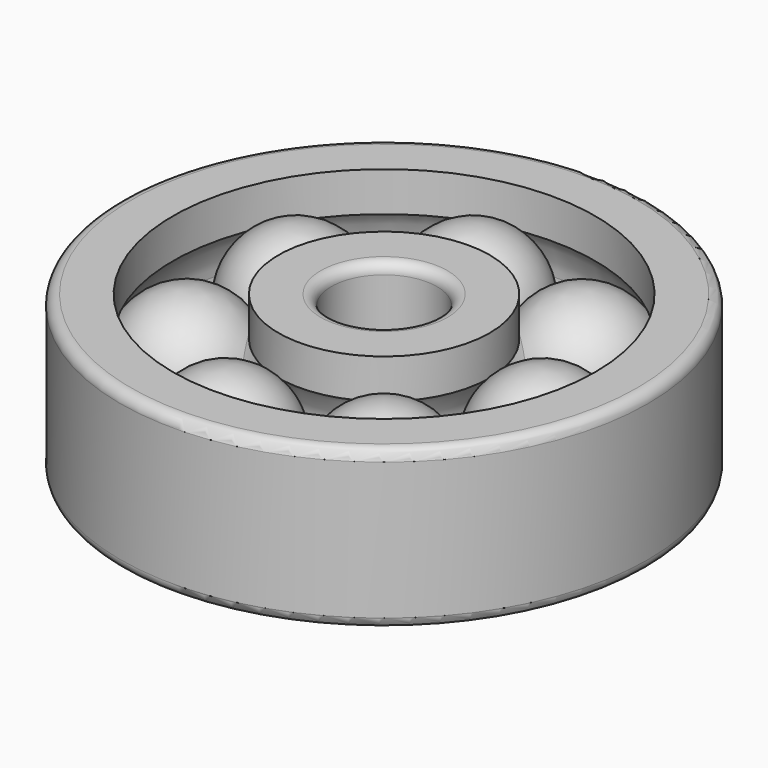
from build123d import *

# Parameters (mm, degrees)
F3_COUNT = 7
F4_R     = 2.54
F4_2_R   = 2.54


with BuildPart() as f1:
    # F0 (on Front) → F1 (revolve)
    with BuildSketch(Plane.XZ):
        with BuildLine():
            Line((50.8, -9.525), (50.8, -19.05))
            Line((50.8, -19.05), (63.5, -19.05))
            Line((63.5, -19.05), (63.5, 19.05))
            Line((63.5, 19.05), (50.8, 19.05))
            Line((50.8, 19.05), (50.8, 9.525))
            ThreePointArc((50.8, 9.525), (53.1603473566, 5.0201157855), (53.975, 0))
            ThreePointArc((53.975, 0), (53.1603473566, -5.0201157855), (50.8, -9.525))
        make_face()
    revolve(axis=Axis((0, 0, 8.9654894546), (0, 0, 1)))

    # F4
    f4_edges = [f1.edges().sort_by_distance(p)[0] for p in [
        (-63.5, 0, -19.05),
        (-63.5, 0, 19.05),
    ]]
    fillet(f4_edges, radius=F4_R)


with BuildPart() as f1b:
    # F0 (on Front) → F1, piece 2 (revolve)
    with BuildSketch(Plane.XZ):
        with BuildLine():
            Line((25.4, -19.05), (25.4, -9.525))
            ThreePointArc((25.4, -9.525), (23.0396526434, -5.0201157855), (22.225, 0))
            ThreePointArc((22.225, 0), (23.0396526434, 5.0201157855), (25.4, 9.525))
            Line((25.4, 9.525), (25.4, 19.05))
            Line((25.4, 19.05), (12.7, 19.05))
            Line((12.7, 19.05), (12.7, -19.05))
            Line((12.7, -19.05), (25.4, -19.05))
        make_face()
    revolve(axis=Axis((0, 0, 8.9654894546), (0, 0, 1)))

    # F4#2
    f4_2_edges = [f1b.edges().sort_by_distance(p)[0] for p in [
        (-12.7, 0, 19.05),
        (-12.7, 0, -19.05),
    ]]
    fillet(f4_2_edges, radius=F4_2_R)


with BuildPart() as f2:
    # F0 (on Front) → F2 (revolve)
    with BuildSketch(Plane.XZ):
        with BuildLine():
            Line((25.4, 0), (50.8, 0))
            Line((50.8, 0), (50.8, 9.525))
            ThreePointArc((50.8, 9.525), (38.1, 15.875), (25.4, 9.525))
            Line((25.4, 9.525), (25.4, 0))
        make_face()
        with BuildLine():
            Line((22.225, 0), (25.4, 0))
            Line((25.4, 0), (25.4, 9.525))
            ThreePointArc((25.4, 9.525), (23.0396526434, 5.0201157855), (22.225, 0))
        make_face()
        with BuildLine():
            Line((50.8, 9.525), (50.8, 0))
            Line((50.8, 0), (53.975, 0))
            ThreePointArc((53.975, 0), (53.1603473566, 5.0201157855), (50.8, 9.525))
        make_face()
    revolve(axis=Axis((38.1, 0, 0), (-1, 0, 0)))


with BuildPart() as f3_1:
    # F3: instance of F2
    add(f2.part.rotate(Axis((0, 0, 8.9654894546), (0, 0, 1)), 1 * 360 / F3_COUNT))


with BuildPart() as f3_2:
    # F3: instance of F2
    add(f2.part.rotate(Axis((0, 0, 8.9654894546), (0, 0, 1)), 2 * 360 / F3_COUNT))


with BuildPart() as f3_3:
    # F3: instance of F2
    add(f2.part.rotate(Axis((0, 0, 8.9654894546), (0, 0, 1)), 3 * 360 / F3_COUNT))


with BuildPart() as f3_4:
    # F3: instance of F2
    add(f2.part.rotate(Axis((0, 0, 8.9654894546), (0, 0, 1)), 4 * 360 / F3_COUNT))


with BuildPart() as f3_5:
    # F3: instance of F2
    add(f2.part.rotate(Axis((0, 0, 8.9654894546), (0, 0, 1)), 5 * 360 / F3_COUNT))


with BuildPart() as f3_6:
    # F3: instance of F2
    add(f2.part.rotate(Axis((0, 0, 8.9654894546), (0, 0, 1)), 6 * 360 / F3_COUNT))


solid = Compound([f1.part, f1b.part, f2.part, f3_1.part, f3_2.part, f3_3.part, f3_4.part, f3_5.part, f3_6.part])
